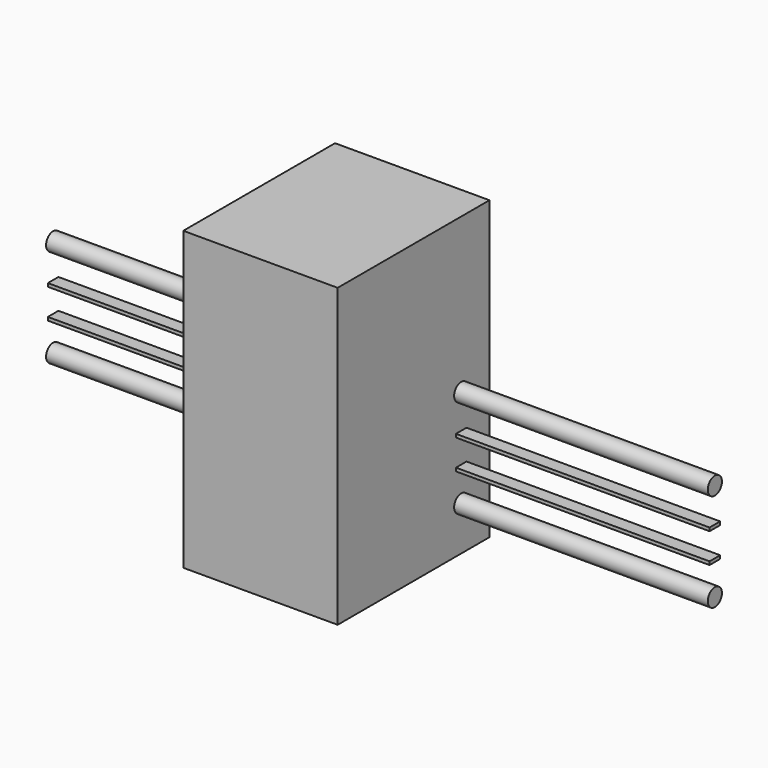
from build123d import *

# Parameters (mm, degrees)
F0_R     = 4
F1_DEPTH = 150
F0_W     = 6
F0_H     = 1.5
F2_W     = 86
F2_H     = 134.5
F3_DEPTH = 35
F4_R     = 7.5
F4_R_2   = 4
F5_DEPTH = 12.5


with BuildPart() as f1:
    # F0 (on Right) → F1 (new body, symmetric)
    with BuildSketch(Plane.YZ):
        Circle(F0_R)
    extrude(amount=F1_DEPTH, both=True)


with BuildPart() as f1b:
    # F0 (on Right) → F1, piece 2 (new body, symmetric)
    with BuildSketch(Plane.YZ):
        with Locations((0, 44.5)):
            Circle(F0_R)
    extrude(amount=F1_DEPTH, both=True)


with BuildPart() as f1c:
    # F0 (on Right) → F1, piece 3 (new body, symmetric)
    with BuildSketch(Plane.YZ):
        with Locations((0, 14.75)):
            Rectangle(F0_W, F0_H)
    extrude(amount=F1_DEPTH, both=True)


with BuildPart() as f1d:
    # F0 (on Right) → F1, piece 4 (new body, symmetric)
    with BuildSketch(Plane.YZ):
        with Locations((0, 28.25)):
            Rectangle(F0_W, F0_H)
    extrude(amount=F1_DEPTH, both=True)


with BuildPart() as f3:
    # F2 (on Right) → F3 (new body, symmetric)
    with BuildSketch(Plane.YZ):
        with Locations((-27, 47.25)):
            Rectangle(F2_W, F2_H)
    extrude(amount=F3_DEPTH, both=True)


with BuildPart() as f5:
    # F4 (on Right) → F5 (new body, symmetric)
    with BuildSketch(Plane.YZ):
        Circle(F4_R)
        Circle(F4_R_2, mode=Mode.SUBTRACT)
    extrude(amount=F5_DEPTH, both=True)


with BuildPart() as f6_1:
    # F6: copy of F5
    add(f5.part.moved(Location((20, 0, 44.5))))


with BuildPart() as f7_1:
    # F7: instance of F6_1
    add(f6_1.part.mirror(Plane.YZ))


solid = Compound([f1.part, f1b.part, f1c.part, f1d.part, f3.part, f5.part, f6_1.part, f7_1.part])
